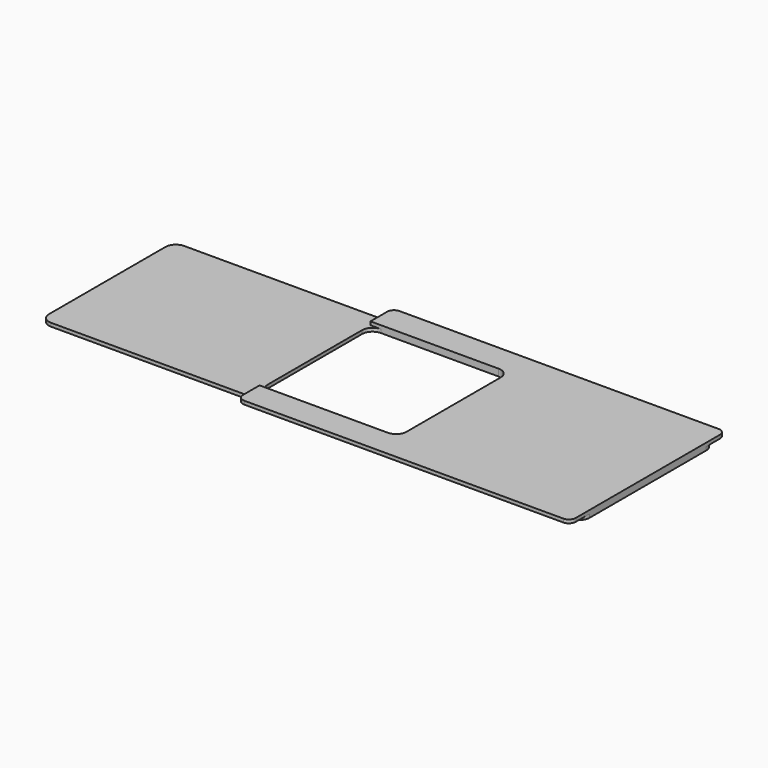
from build123d import *

# Parameters (mm, degrees)
F1_DEPTH = 3.175
F3_DEPTH = 3.175


with BuildPart() as f1:
    # F0 (on Top) → F1 (new body)
    with BuildSketch(Plane.XY):
        with BuildLine():
            Line((168.37406, 139.7), (-307.8226, 139.7))
            ThreePointArc((-307.8226, 139.7), (-314.557792, 136.910192), (-317.3476, 130.175))
            Line((-317.3476, 130.175), (-317.3476, -3.175))
            ThreePointArc((-317.3476, -3.175), (-314.557792, -9.910192), (-307.8226, -12.7))
            Line((-307.8226, -12.7), (168.37406, -12.7))
            ThreePointArc((168.37406, -12.7), (175.109252, -9.910192), (177.89906, -3.175))
            Line((177.89906, -3.175), (177.89906, 130.175))
            ThreePointArc((177.89906, 130.175), (175.109252, 136.910192), (168.37406, 139.7))
        make_face()
        with BuildLine():
            ThreePointArc((0, 9.525), (-2.789808, 2.789808), (-9.525, 0))
            Line((-9.525, 0), (-117.475, 0))
            ThreePointArc((-117.475, 0), (-124.210192, 2.789808), (-127, 9.525))
            Line((-127, 9.525), (-127, 117.475))
            ThreePointArc((-127, 117.475), (-124.210192, 124.210192), (-117.475, 127))
            Line((-117.475, 127), (-9.525, 127))
            ThreePointArc((-9.525, 127), (-2.789808, 124.210192), (0, 117.475))
            Line((0, 117.475), (0, 9.525))
        make_face(mode=Mode.SUBTRACT)
    extrude(amount=F1_DEPTH)

    # F2 (on face) → F3 (join)
    with BuildSketch(Plane.XY.offset(3.175)):
        with BuildLine():
            Line((171.54906, 152.4), (-120.65, 152.4))
            ThreePointArc((-120.65, 152.4), (-125.140128, 150.540128), (-127, 146.05))
            Line((-127, 146.05), (-127, 127))
            Line((-127, 127), (-9.525, 127))
            ThreePointArc((-9.525, 127), (-2.789808, 124.210192), (0, 117.475))
            Line((0, 117.475), (0, 9.525))
            ThreePointArc((0, 9.525), (-2.789808, 2.789808), (-9.525, 0))
            Line((-9.525, 0), (-127, 0))
            Line((-127, 0), (-127, -19.05))
            ThreePointArc((-127, -19.05), (-125.140128, -23.540128), (-120.65, -25.4))
            Line((-120.65, -25.4), (171.54906, -25.4))
            ThreePointArc((171.54906, -25.4), (176.039188, -23.540128), (177.89906, -19.05))
            Line((177.89906, -19.05), (177.89906, 146.05))
            ThreePointArc((177.89906, 146.05), (176.039188, 150.540128), (171.54906, 152.4))
        make_face()
    extrude(amount=F3_DEPTH)


solid = f1.part
